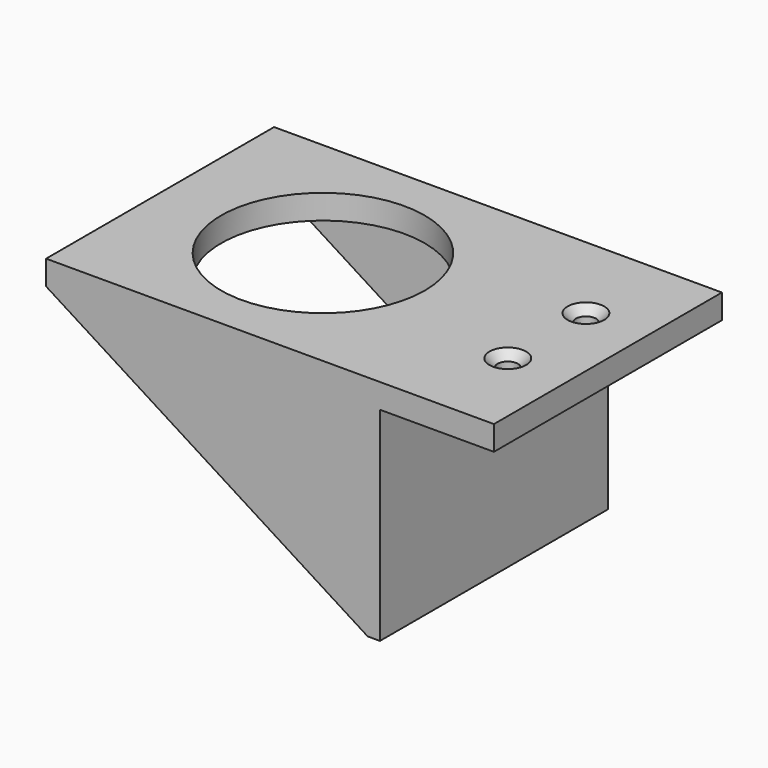
from build123d import *

# Parameters (mm, degrees)
F0_W     = 110
F0_H     = 70
F0_R     = 2.5
F0_R_2   = 25
F1_DEPTH = 6
F2_W     = 5
F2_H     = 70
F3_DEPTH = 50
F4_W     = 77
F4_H     = 5
F5_DEPTH = 50
F7_DEPTH = 84.5
F8_SIZE  = 2
F9_SIZE  = 2


with BuildPart() as f1:
    # F0 (on Top) → F1 (new body)
    with BuildSketch(Plane.XY):
        Rectangle(F0_W, F0_H)
        with Locations((40, -12)):
            Circle(F0_R, mode=Mode.SUBTRACT)
        with Locations((-15, 0)):
            Circle(F0_R_2, mode=Mode.SUBTRACT)
        with Locations((40, 12)):
            Circle(F0_R, mode=Mode.SUBTRACT)
    extrude(amount=F1_DEPTH)

    # F2 (on face) → F3 (join)
    with BuildSketch(Plane(origin=(0, 0, 0), x_dir=(1, 0, 0), z_dir=(0, 0, -1))):
        with Locations((24.5, 0)):
            Rectangle(F2_W, F2_H)
    extrude(amount=F3_DEPTH)

    # F4 (on face) → F5 (join)
    with BuildSketch(Plane(origin=(0, 0, 0), x_dir=(1, 0, 0), z_dir=(0, 0, -1))):
        with Locations((-16.5, 32.5)):
            Rectangle(F4_W, F4_H)
        with Locations((-16.5, -32.5)):
            Rectangle(F4_W, F4_H)
    extrude(amount=F5_DEPTH)

    # F6 (on face) → F7 (cut)
    with BuildSketch(Plane.XZ.offset(35)):
        Polygon((24, -50), (-55, 0), (-55, -50), align=None)
    extrude(amount=-F7_DEPTH, mode=Mode.SUBTRACT)

    # F8
    f8_edges = [f1.edges().sort_by_distance(p)[0] for p in [
        (37.5, 12, 6),
    ]]
    chamfer(f8_edges, length=F8_SIZE)

    # F9
    f9_edges = [f1.edges().sort_by_distance(p)[0] for p in [
        (37.5, -12, 6),
    ]]
    chamfer(f9_edges, length=F9_SIZE)


solid = f1.part
